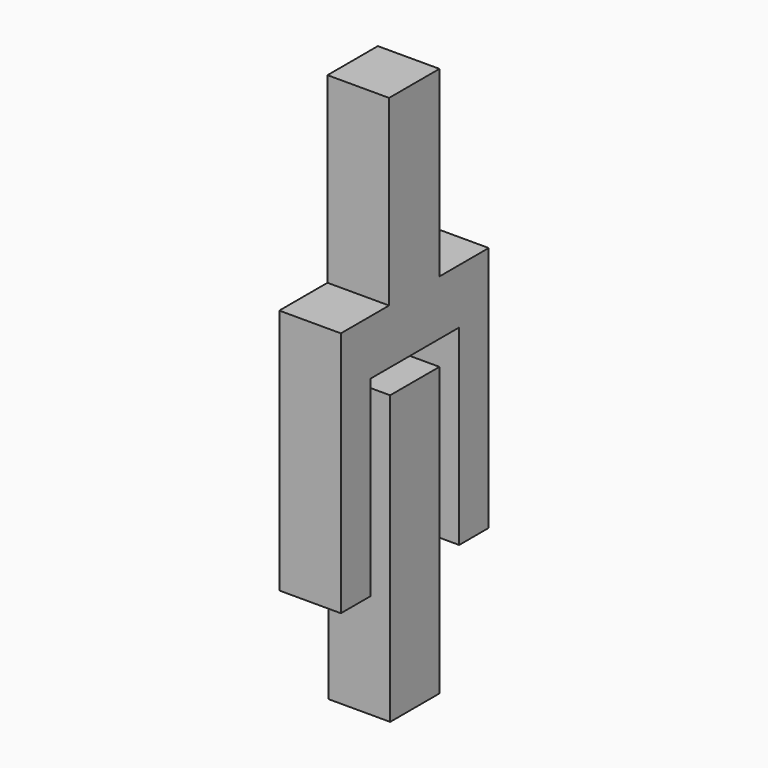
from build123d import *

# Parameters (mm, degrees)
F1_DEPTH = 10


with BuildPart() as f1:
    # F0 (on Right) → F1 (new body)
    with BuildSketch(Plane.YZ):
        Polygon((0, 40), (0, 0), (6, 0), (6, 27.084172), (6, 31.084172), (10, 31.084172), (15, 31.084172), (20, 31.084172), (24, 31.084172), (24, 27.084172), (24, 0), (30, 0), (30, 40), (20, 40), (20, 69.665618), (15, 69.665618), (9.781671, 69.665618), (9.781671, 40), align=None)
        Polygon((20, 27.084172), (15, 27.084172), (10, 27.084172), (10, 0), (10, -19.590028), (20, -19.590028), (20, 0), align=None)
    extrude(amount=F1_DEPTH)


solid = f1.part
